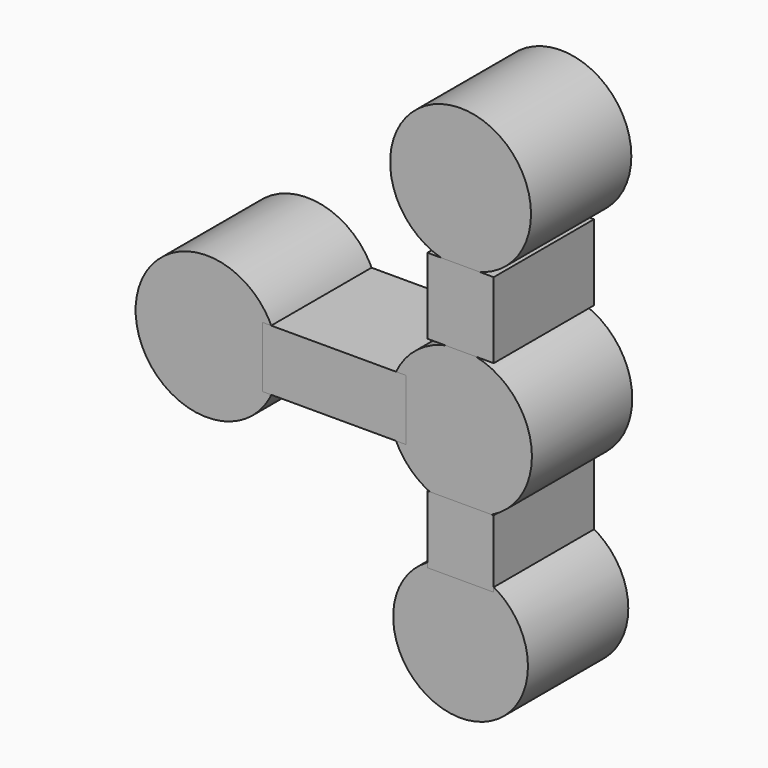
from build123d import *

# Parameters (mm, degrees)
F0_R     = 14.223306
F1_DEPTH = 25
F2_R     = 14.042759
F3_DEPTH = 25
F4_R     = 13.433927
F5_DEPTH = 25
F6_R     = 14.210097
F7_DEPTH = 25
F8_W     = 13.214898
F8_H     = 15.102737
F8_H_2   = 13.484589
F8_W_2   = 28.587332
F8_H_3   = 12.13613
F9_DEPTH = 25


with BuildPart() as f1:
    # F0 (on Front) → F1 (new body)
    with BuildSketch(Plane.XZ):
        Circle(F0_R)
    extrude(amount=F1_DEPTH)


with BuildPart() as f3:
    # F2 (on Front) → F3 (new body)
    with BuildSketch(Plane.XZ):
        with Locations((0, 42.47646)):
            Circle(F2_R)
    extrude(amount=F3_DEPTH)


with BuildPart() as f5:
    # F4 (on Front) → F5 (new body)
    with BuildSketch(Plane.XZ):
        with Locations((0, -37.08262)):
            Circle(F4_R)
    extrude(amount=F5_DEPTH)


with BuildPart() as f7:
    # F6 (on Front) → F7 (new body)
    with BuildSketch(Plane.XZ):
        with Locations((-50.56721, 0)):
            Circle(F6_R)
    extrude(amount=F7_DEPTH)


with BuildPart() as f9:
    # F8 (on Front) → F9 (new body)
    with BuildSketch(Plane.XZ):
        with Locations((0, 21.440499)):
            Rectangle(F8_W, F8_H)
        with Locations((0, -19.552656)):
            Rectangle(F8_W, F8_H_2)
        with Locations((-25.216183, 0)):
            Rectangle(F8_W_2, F8_H_3)
    extrude(amount=F9_DEPTH)


solid = Compound([f1.part, f3.part, f5.part, f7.part, f9.part])
